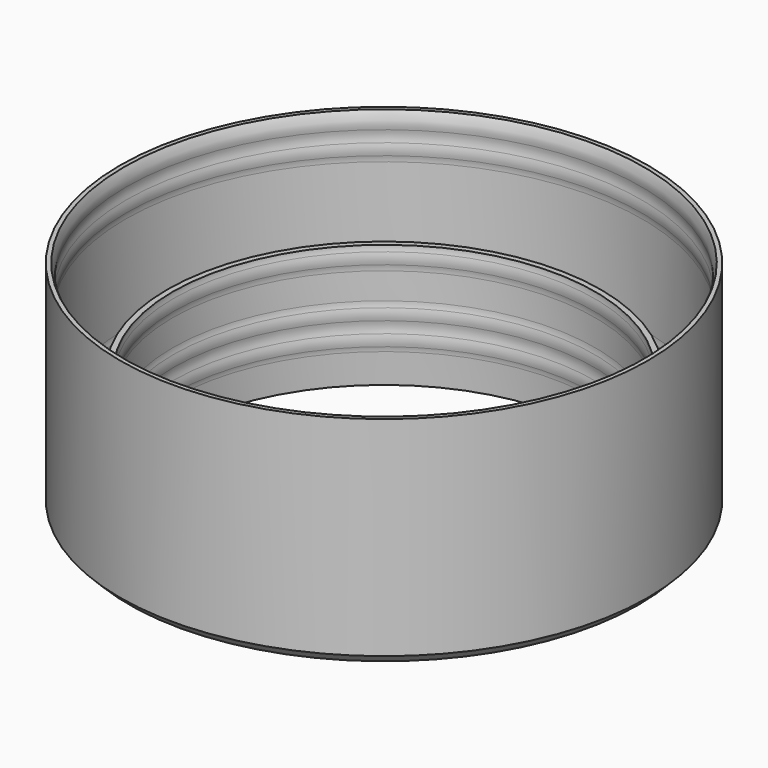
from build123d import *

# Parameters (mm, degrees)
CHAMFER002_SIZE = 2


with BuildPart() as part:
    # Sketch → Revolution002 (revolve)
    with BuildSketch(Plane.XZ):
        with BuildLine():
            Line((-56.2, 0), (-56.2, 46.4))
            Line((-56.2, 46.4), (-55.3, 46.4))
            ThreePointArc((-54.85, 42.809607), (-54.738815, 44.646939), (-55.3, 46.4))
            ThreePointArc((-54.85, 42.809607), (-55, 41.594082), (-54.85, 40.378558))
            ThreePointArc((-54.85, 37.947509), (-54.7, 39.163033), (-54.85, 40.378558))
            ThreePointArc((-54.85, 37.947509), (-54.962358, 37.344357), (-55, 36.731984))
            Line((-55, 16.124197), (-55, 36.731984))
            ThreePointArc((-55, 16.124197), (-54.962358, 15.511824), (-54.85, 14.908672))
            ThreePointArc((-54.85, 12.477623), (-54.7, 13.693147), (-54.85, 14.908672))
            ThreePointArc((-54.85, 12.477623), (-55, 11.262098), (-54.85, 10.046574))
            ThreePointArc((-54.85, 7.615525), (-54.7, 8.831049), (-54.85, 10.046574))
            ThreePointArc((-54.85, 7.615525), (-54.962358, 7.012372), (-55, 6.4))
            Line((-54.7, 6.4), (-55, 6.4))
            Line((-46.15, 6.4), (-54.7, 6.4))
            Line((-46.15, 6.4), (-46.15, 26.4))
            Line((-44.95, 26.4), (-46.15, 26.4))
            ThreePointArc((-44.95, 26.4), (-44.912358, 25.787628), (-44.8, 25.184475))
            ThreePointArc((-44.8, 22.753426), (-44.65, 23.968951), (-44.8, 25.184475))
            ThreePointArc((-44.8, 22.753426), (-44.912358, 22.150274), (-44.95, 21.537902))
            Line((-44.95, 15.911857), (-44.95, 21.537902))
            ThreePointArc((-44.95, 15.911857), (-44.912358, 15.299484), (-44.8, 14.696332))
            ThreePointArc((-44.8, 12.265283), (-44.65, 13.480808), (-44.8, 14.696332))
            ThreePointArc((-44.8, 12.265283), (-44.95, 11.049759), (-44.8, 9.834234))
            ThreePointArc((-44.802742, 7.392296), (-44.650003, 8.613095), (-44.8, 9.834234))
            ThreePointArc((-44.802742, 7.392296), (-44.90132, 6.89985), (-44.95, 6.4))
            Line((-45.25, 0), (-44.95, 6.4))
            Line((-56.2, 0), (-45.25, 0))
        make_face()
    revolve(axis=Axis((0, 0, 0), (0, 0, 1)))

    # Sketch009 → Groove (revolve, cut)
    with BuildSketch(Plane(origin=(50.575, 0, 0), x_dir=(1, 0, 0), z_dir=(0, -1, 0))):
        with BuildLine():
            Line((-2.3, 6.4), (0, 6.4))
            Line((0, 0), (0, 6.4))
            Line((0, 0), (-2.3, 0))
            ThreePointArc((-2.3, 0), (-1.739923, 1.260906), (-1.85, 2.636208))
            ThreePointArc((-2, 3.540365), (-1.962245, 3.082107), (-1.85, 2.636208))
            Line((-2, 3.540365), (-2, 2.859635))
            ThreePointArc((-1.85, 3.763792), (-1.962245, 3.317893), (-2, 2.859635))
            ThreePointArc((-1.85, 3.763792), (-1.739923, 5.139094), (-2.3, 6.4))
        make_face()
    revolve(axis=Axis((50.575, 0, 0), (0, 0, 1)), mode=Mode.SUBTRACT)

    # Chamfer002
    chamfer002_edges = [part.edges().sort_by_distance(p)[0] for p in [
        (56.2, 0, 0),
    ]]
    chamfer(chamfer002_edges, length=CHAMFER002_SIZE)


solid = part.part
